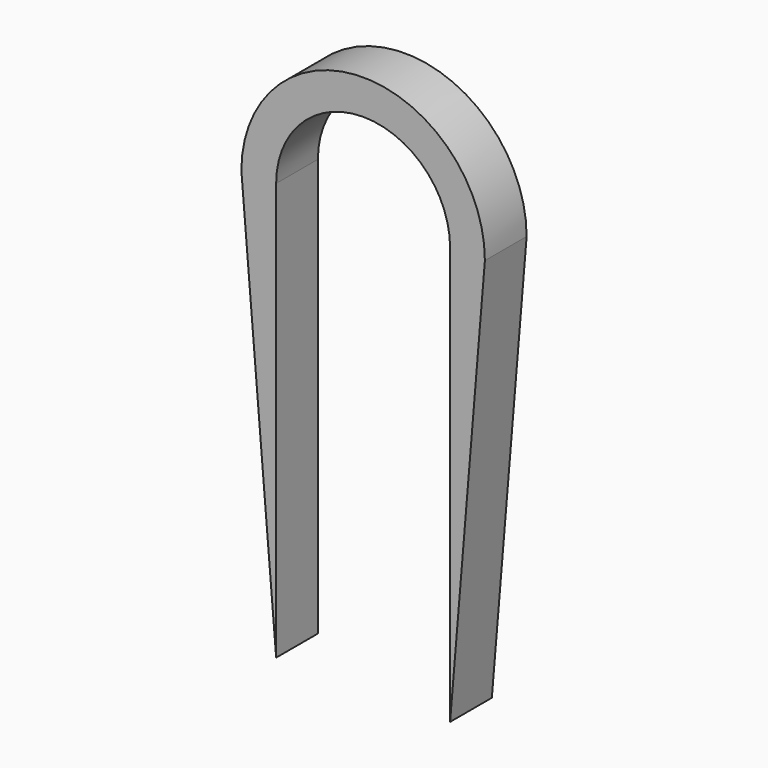
from build123d import *

# Parameters (mm, degrees)
F1_DEPTH = 19.05


with BuildPart() as f1:
    # F0 (on Front) → F1 (new body)
    with BuildSketch(Plane.XZ):
        with BuildLine():
            ThreePointArc((-32.870578, 0), (-1.120578, 31.75), (30.629422, 0))
            Line((30.629422, 0), (30.629422, -152.4))
            Line((30.629422, -152.4), (43.329422, 0))
            ThreePointArc((43.329422, 0), (-1.120578, 44.45), (-45.570578, 0))
            Line((-45.570578, 0), (-32.870578, -152.4))
            Line((-32.870578, -152.4), (-32.870578, 0))
        make_face()
    extrude(amount=F1_DEPTH)


solid = f1.part
